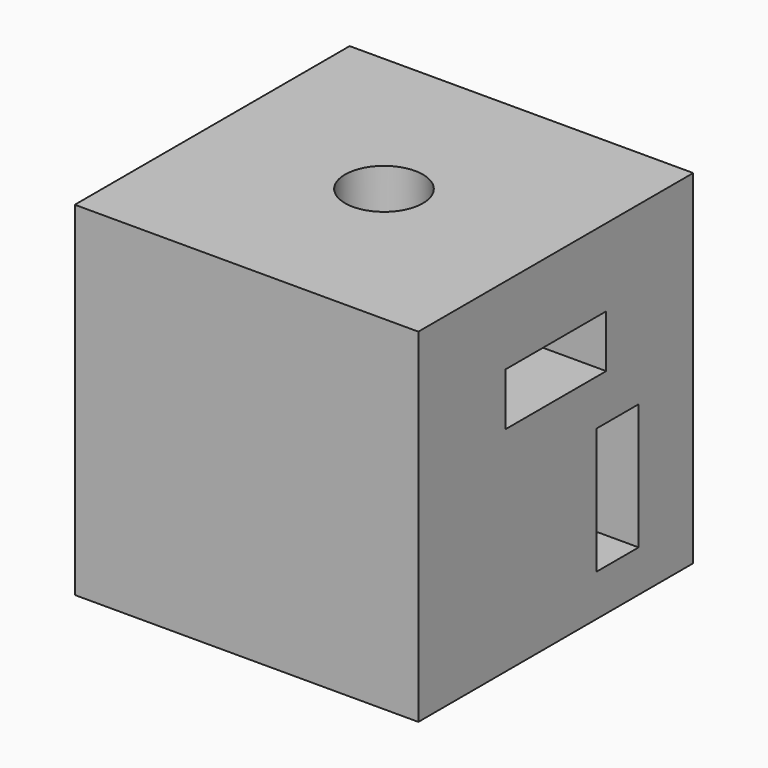
from build123d import *

# Parameters (mm, degrees)
F0_W     = 15
F0_H     = 15
F1_DEPTH = 15
F2_W     = 5.503
F2_H     = 2.3
F2_W_2   = 2.3
F2_H_2   = 5.503
F3_DEPTH = 11.5
F5_D     = 3.4
F5_DEPTH = 12
F5_TIP   = 1.0214630523
F7_D     = 3.4
F7_DEPTH = 12
F7_TIP   = 1.0214630523


with BuildPart() as f1:
    # F0 (on Top) → F1 (new body)
    with BuildSketch(Plane.XY):
        with Locations((7.5, 7.5)):
            Rectangle(F0_W, F0_H)
    extrude(amount=F1_DEPTH)

    # F2 (on face) → F3 (cut)
    with BuildSketch(Plane.YZ.offset(15)):
        with Locations((7.5, 10.4661304504)):
            Rectangle(F2_W, F2_H)
        with Locations((10.8725838363, 4.5725819655)):
            Rectangle(F2_W_2, F2_H_2)
    extrude(amount=-F3_DEPTH, mode=Mode.SUBTRACT)

    # F5
    with Locations(Plane.XY.offset(15)):
        with Locations((7.5, 7.5)):
            Hole(F5_D / 2, depth=F5_DEPTH)
            with Locations((0, 0, -(F5_DEPTH + F5_TIP / 2))):  # 118° drill point
                Cone(0, F5_D / 2, F5_TIP, mode=Mode.SUBTRACT)

    # F7
    with Locations(Plane(origin=(0, 15, 0), x_dir=(-1, 0, 0), z_dir=(0, 1, 0))):
        with Locations((-7.5, 4.5725819655)):
            Hole(F7_D / 2, depth=F7_DEPTH)
            with Locations((0, 0, -(F7_DEPTH + F7_TIP / 2))):  # 118° drill point
                Cone(0, F7_D / 2, F7_TIP, mode=Mode.SUBTRACT)


solid = f1.part
